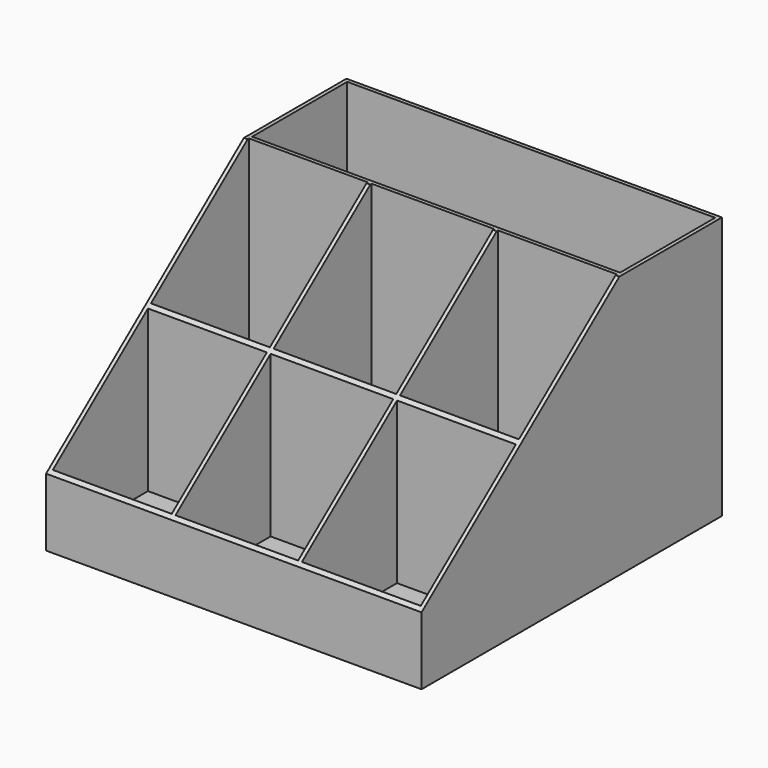
from build123d import *

# Parameters (mm, degrees)
F0_W     = 100
F0_H     = 100
F1_DEPTH = 70
F2_W     = 98
F2_H     = 98
F3_DEPTH = 69
F4_W     = 31.666
F4_H     = 1
F4_W_2   = 1
F4_W_3   = 32.668
F4_H_2   = 32.668
F4_H_3   = 31.666
F5_DEPTH = 69
F7_DEPTH = 100.001
F8_ANGLE = 180


with BuildPart() as f1:
    # F0 (on Top) → F1 (new body)
    with BuildSketch(Plane.XY):
        Rectangle(F0_W, F0_H)
    extrude(amount=F1_DEPTH)

    # F2 (on face) → F3 (cut)
    with BuildSketch(Plane.XY.offset(70)):
        Rectangle(F2_W, F2_H)
    extrude(amount=-F3_DEPTH, mode=Mode.SUBTRACT)

    # F4 (on face) → F5 (join)
    with BuildSketch(Plane.XY.offset(1)):
        with Locations((33.167, -16.834)):
            Rectangle(F4_W, F4_H)
        with Locations((16.834, -16.834)):
            Rectangle(F4_W_2, F4_H)
        with Locations((0, -16.834)):
            Rectangle(F4_W_3, F4_H)
        with Locations((-16.834, -16.834)):
            Rectangle(F4_W_2, F4_H)
        with Locations((-33.167, -16.834)):
            Rectangle(F4_W, F4_H)
        with Locations((-16.834, 0)):
            Rectangle(F4_W_2, F4_H_2)
        with Locations((16.834, 0)):
            Rectangle(F4_W_2, F4_H_2)
        with Locations((33.167, 16.834)):
            Rectangle(F4_W, F4_H)
        with Locations((16.834, 16.834)):
            Rectangle(F4_W_2, F4_H)
        with Locations((0, 16.834)):
            Rectangle(F4_W_3, F4_H)
        with Locations((-16.834, 16.834)):
            Rectangle(F4_W_2, F4_H)
        with Locations((-33.167, 16.834)):
            Rectangle(F4_W, F4_H)
        with Locations((-16.834, 33.167)):
            Rectangle(F4_W_2, F4_H_3)
        with Locations((16.834, 33.167)):
            Rectangle(F4_W_2, F4_H_3)
    extrude(amount=F5_DEPTH)

    # F6 (on face) → F7 (cut, through all)
    with BuildSketch(Plane(origin=(-50, 0, 0), x_dir=(0, -1, 0), z_dir=(-1, 0, 0))):
        Polygon((-50, 18.0460233241), (15.8534999937, 70), (-50, 70), align=None)
    extrude(amount=-F7_DEPTH, mode=Mode.SUBTRACT)


with BuildPart() as f1_1:
    # F8: moved
    add(f1.part.rotate(Axis((16.334, 16.334, 35.5), (0, 0, -1)), F8_ANGLE))


solid = f1_1.part
